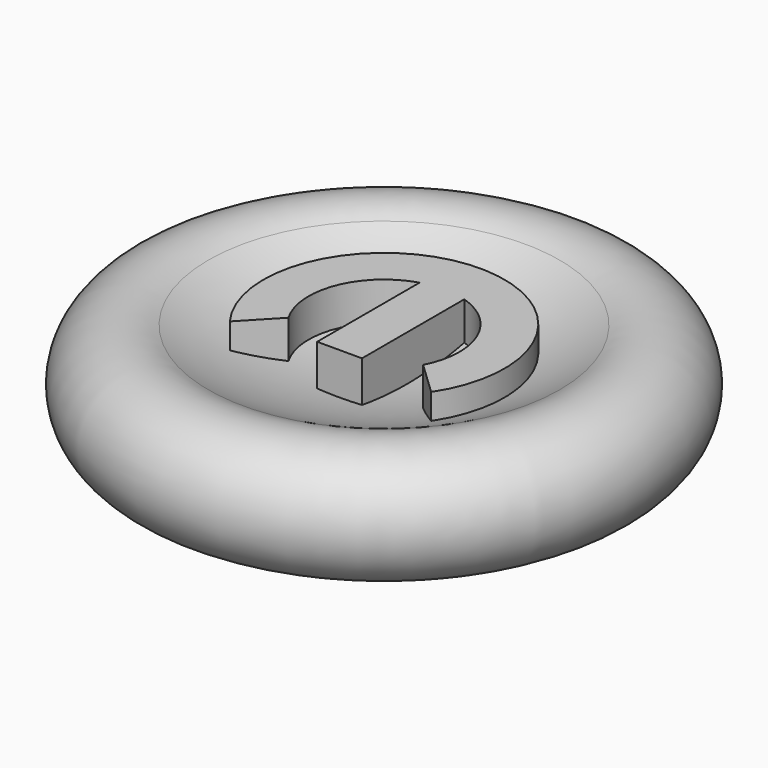
from build123d import *

# Parameters (mm, degrees)
F4_DEPTH = 12.7
F5_DEPTH = 0.762


with BuildPart() as f1:
    # F0 (on Front) → F1 (revolve)
    with BuildSketch(Plane.XZ):
        with BuildLine():
            ThreePointArc((0, 12.7), (-17.462475, 14.921919), (-33.812103, 21.446078))
            ThreePointArc((-33.812103, 21.446078), (-50.43546, 14.30549), (-39.359497, 0))
            Line((-39.359497, 0), (0, 0))
            Line((0, 0), (0, 12.7))
        make_face()
    revolve(axis=Axis((0, 0, 6.35), (0, 0, -1)))


with BuildPart() as f4:
    # F3 (on offset) → F4 (new body)
    with BuildSketch(Plane.XY.offset(8.89)):
        with BuildLine():
            Line((12.882156, -6.693991), (19.329203, -12.815075))
            ThreePointArc((19.329203, -12.815075), (-0.601284, 23.183674), (-18.638929, -13.799804))
            Line((-18.638929, -13.799804), (-12.517844, -7.352757))
            ThreePointArc((-12.517844, -7.352757), (-13.528485, 5.266834), (-4.251169, 13.881175))
            Line((-4.251169, 13.881175), (-4.251169, -10.768405))
            Line((-4.251169, -10.768405), (4.377302, -10.768405))
            Line((4.377302, -10.768405), (4.377302, 13.841917))
            ThreePointArc((4.377302, 13.841917), (13.412796, 5.554849), (12.882156, -6.693991))
        make_face()
    extrude(amount=F4_DEPTH)

    # F3 (on offset) → F5 (join)
    with BuildSketch(Plane.XY.offset(8.89)):
        with BuildLine():
            Line((12.882156, -6.693991), (19.329203, -12.815075))
            ThreePointArc((19.329203, -12.815075), (-0.601284, 23.183674), (-18.638929, -13.799804))
            Line((-18.638929, -13.799804), (-12.517844, -7.352757))
            ThreePointArc((-12.517844, -7.352757), (-13.528485, 5.266834), (-4.251169, 13.881175))
            Line((-4.251169, 13.881175), (-4.251169, -10.768405))
            Line((-4.251169, -10.768405), (4.377302, -10.768405))
            Line((4.377302, -10.768405), (4.377302, 13.841917))
            ThreePointArc((4.377302, 13.841917), (13.412796, 5.554849), (12.882156, -6.693991))
        make_face()
    extrude(amount=F5_DEPTH)


solid = Compound([f1.part, f4.part])
